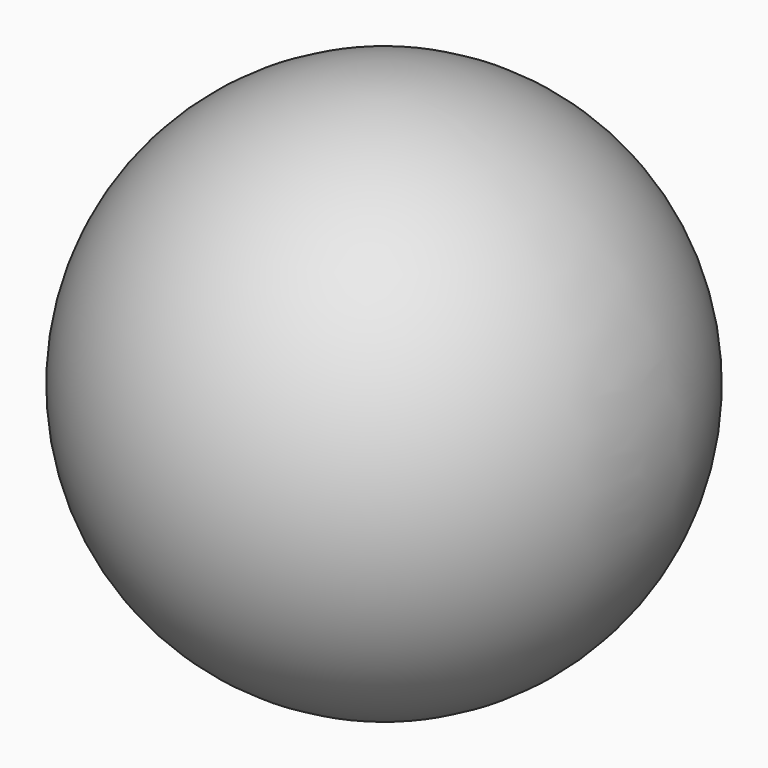
from build123d import *

# Parameters (mm, degrees)
F2_T = -6


with BuildPart() as f1:
    # F0 (on Front) → F1 (revolve)
    with BuildSketch(Plane.XZ):
        with BuildLine():
            ThreePointArc((0, -100), (100, 0), (0, 100))
            Line((0, 100), (0, -100))
        make_face()
    revolve(axis=Axis((0, 0, 0), (0, 0, -1)))

    # F2 (hollow: no face is removed)
    offset(amount=F2_T, mode=Mode.SUBTRACT)


solid = f1.part
